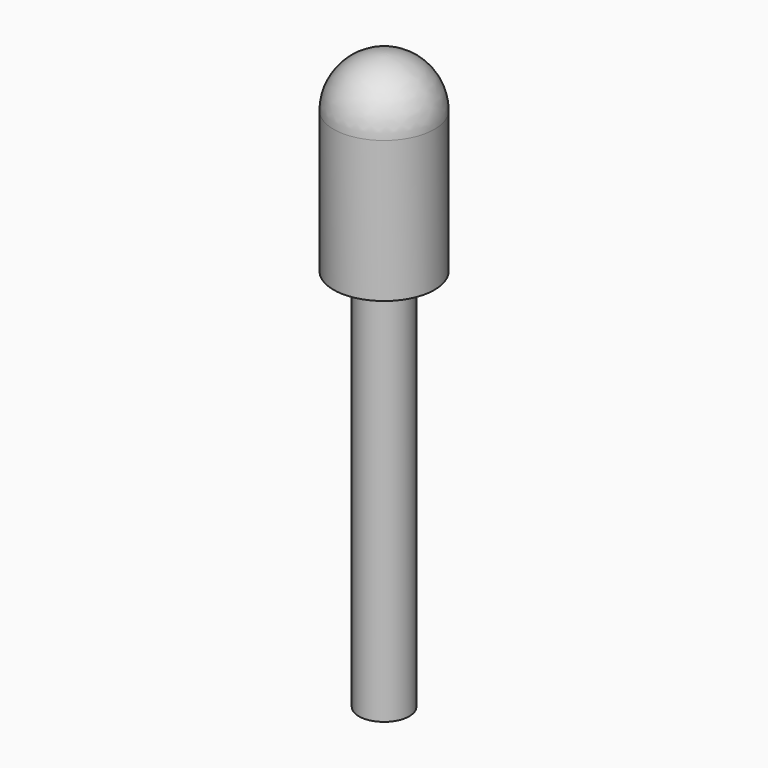
from build123d import *

# Parameters (mm, degrees)
F0_R     = 0.5
F1_DEPTH = 7.6
F2_R     = 1
F2_R_2   = 0.5
F3_DEPTH = 2.8


with BuildPart() as f1:
    # F0 (on Top) → F1 (new body)
    with BuildSketch(Plane.XY):
        Circle(F0_R)
    extrude(amount=F1_DEPTH)

    # F2 (on face) → F3 (join)
    with BuildSketch(Plane.XY.offset(7.6)):
        Circle(F2_R)
        Circle(F2_R_2, mode=Mode.SUBTRACT)
        Circle(F2_R_2)
    extrude(amount=F3_DEPTH)

    # F4 (on Front) → F5 (revolve)
    with BuildSketch(Plane.XZ):
        with BuildLine():
            Line((0, 10.4), (1, 10.4))
            ThreePointArc((1, 10.4), (0.707107, 11.107107), (0, 11.4))
            Line((0, 11.4), (0, 10.4))
        make_face()
    revolve(axis=Axis((0, 0, 7.5), (0, 0, 1)))


solid = f1.part
